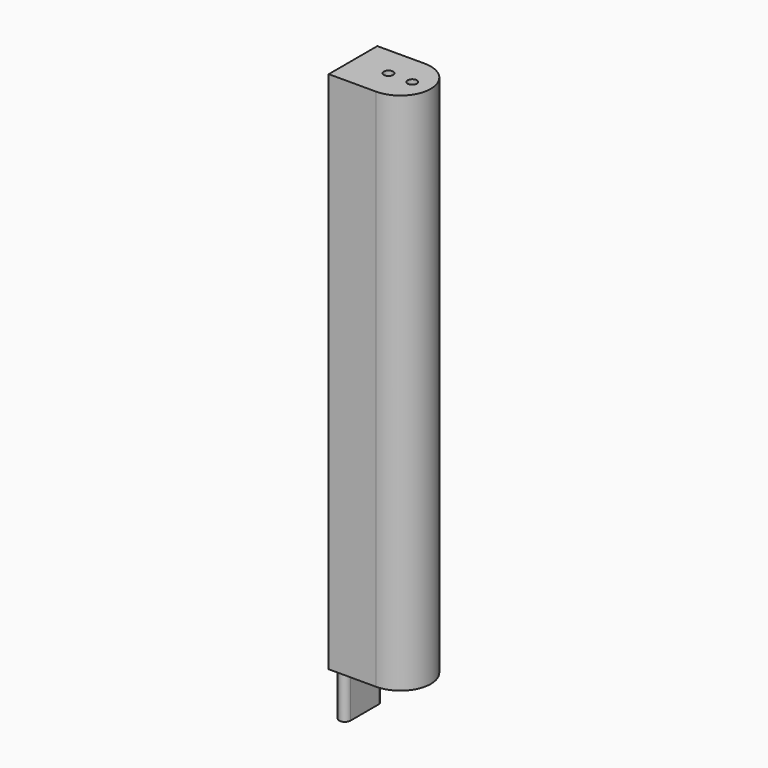
from build123d import *

# Parameters (mm, degrees)
PAD_DEPTH    = 56.05
SKETCH001_R  = 0.5
POCKET_DEPTH = 70
PAD001_DEPTH = 5


with BuildPart() as part:
    # Sketch → Pad (new body)
    with BuildSketch(Plane.XY):
        with BuildLine():
            Line((-5.067001, 3.25), (-1e-06, 3.25))
            ThreePointArc((-2e-06, -3.25), (3.253286, 0), (-1e-06, 3.25))
            Line((-2e-06, -3.25), (-5.067001, -3.25))
            Line((-5.067001, -3.25), (-5.067001, 3.25))
        make_face()
    extrude(amount=PAD_DEPTH)

    # Sketch001 (on Face6 of Pad) → Pocket (cut)
    with BuildSketch(Plane.XY.offset(56.05)):
        with Locations((-1.27, 0)):
            Circle(SKETCH001_R)
        with Locations((1.27, 0)):
            Circle(SKETCH001_R)
    extrude(amount=-POCKET_DEPTH, mode=Mode.SUBTRACT)

    # Sketch002 (on Face4 of Pocket) → Pad001 (join)
    with BuildSketch(Plane(origin=(0, 0, 0), x_dir=(1, 0, 0), z_dir=(0, 0, -1))):
        with BuildLine():
            Line((-3.84, 1.905), (-3.84, -1.905))
            ThreePointArc((-5.04, -1.879774), (-4.452472, -2.485689), (-3.84, -1.905))
            Line((-5.04, 1.879643), (-5.04, -1.879774))
            ThreePointArc((-3.84, 1.905), (-4.452379, 2.478133), (-5.04, 1.879643))
        make_face()
    extrude(amount=PAD001_DEPTH)


solid = part.part
